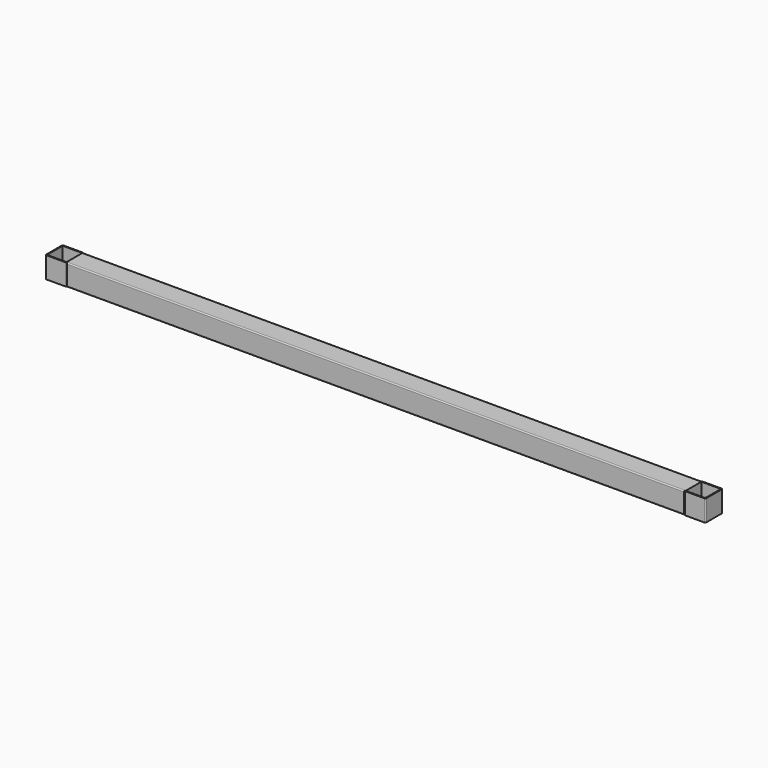
from build123d import *

# Parameters (mm, degrees)
F0_W     = 46
F0_H     = 46
F1_DEPTH = 725
F3_W     = 46
F3_H     = 46
F4_DEPTH = 25


with BuildPart() as f1:
    # F0 (on Right) → F1 (new body, symmetric)
    with BuildSketch(Plane.YZ):
        with BuildLine():
            ThreePointArc((-175, 422.46), (-175.743949, 424.256051), (-177.54, 425))
            Line((-177.54, 425), (-222.46, 425))
            ThreePointArc((-222.46, 425), (-224.256051, 424.256051), (-225, 422.46))
            Line((-225, 422.46), (-225, 377.54))
            ThreePointArc((-225, 377.54), (-224.256051, 375.743949), (-222.46, 375))
            Line((-222.46, 375), (-177.54, 375))
            ThreePointArc((-177.54, 375), (-175.743949, 375.743949), (-175, 377.54))
            Line((-175, 377.54), (-175, 422.46))
        make_face()
        with Locations((-200, 400)):
            Rectangle(F0_W, F0_H, mode=Mode.SUBTRACT)
    extrude(amount=F1_DEPTH, both=True)

    # F3 (on offset) → F4 (join, symmetric)
    with BuildSketch(Plane.XY.offset(400)):
        with BuildLine():
            Line((727.54, -225), (772.46, -225))
            ThreePointArc((772.46, -225), (774.256051, -224.256051), (775, -222.46))
            Line((775, -222.46), (775, -177.54))
            ThreePointArc((775, -177.54), (774.256051, -175.743949), (772.46, -175))
            Line((772.46, -175), (727.54, -175))
            ThreePointArc((727.54, -175), (725.743949, -175.743949), (725, -177.54))
            Line((725, -177.54), (725, -222.46))
            ThreePointArc((725, -222.46), (725.743949, -224.256051), (727.54, -225))
        make_face()
        with Locations((750, -200)):
            Rectangle(F3_W, F3_H, mode=Mode.SUBTRACT)
        with BuildLine():
            ThreePointArc((-775, -222.46), (-774.256051, -224.256051), (-772.46, -225))
            Line((-772.46, -225), (-727.54, -225))
            ThreePointArc((-727.54, -225), (-725.743949, -224.256051), (-725, -222.46))
            Line((-725, -222.46), (-725, -177.54))
            ThreePointArc((-725, -177.54), (-725.743949, -175.743949), (-727.54, -175))
            Line((-727.54, -175), (-772.46, -175))
            ThreePointArc((-772.46, -175), (-774.256051, -175.743949), (-775, -177.54))
            Line((-775, -177.54), (-775, -222.46))
        make_face()
        with Locations((-750, -200)):
            Rectangle(F3_W, F3_H, mode=Mode.SUBTRACT)
    extrude(amount=F4_DEPTH, both=True)


solid = f1.part
